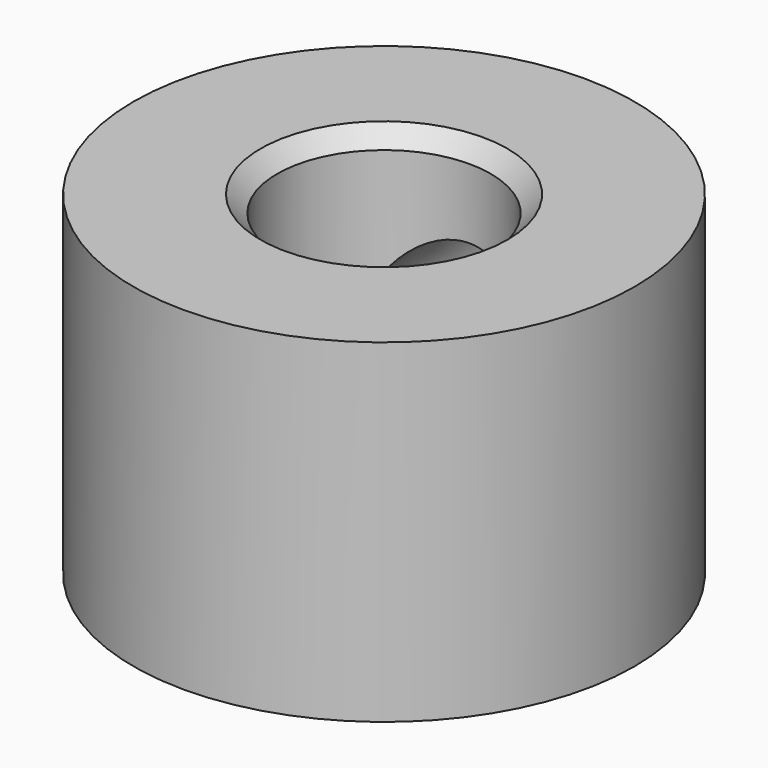
from build123d import *

# Parameters (mm, degrees)
F0_R     = 9.525
F1_DEPTH = 6.35
F2_R     = 4.05765
F3_DEPTH = 12.7
F4_R     = 2.85
F5_DEPTH = 9.526
F5_TAPER = -3
F6_SIZE  = 0.635


with BuildPart() as f1:
    # F0 (on Top) → F1 (new body, symmetric)
    with BuildSketch(Plane.XY):
        Circle(F0_R)
    extrude(amount=F1_DEPTH, both=True)

    # F2 (on Top) → F3 (cut, symmetric)
    with BuildSketch(Plane.XY):
        Circle(F2_R)
    extrude(amount=F3_DEPTH, both=True, mode=Mode.SUBTRACT)

    # F4 (on Front) → F5 (cut, through all)
    with BuildSketch(Plane.XZ):
        Circle(F4_R)
    extrude(amount=-F5_DEPTH, taper=F5_TAPER, mode=Mode.SUBTRACT)

    # F6
    f6_edges = [f1.edges().sort_by_distance(p)[0] for p in [
        (-4.05765, 0, -6.35),
        (-4.05765, 0, 6.35),
    ]]
    chamfer(f6_edges, length=F6_SIZE)


solid = f1.part
